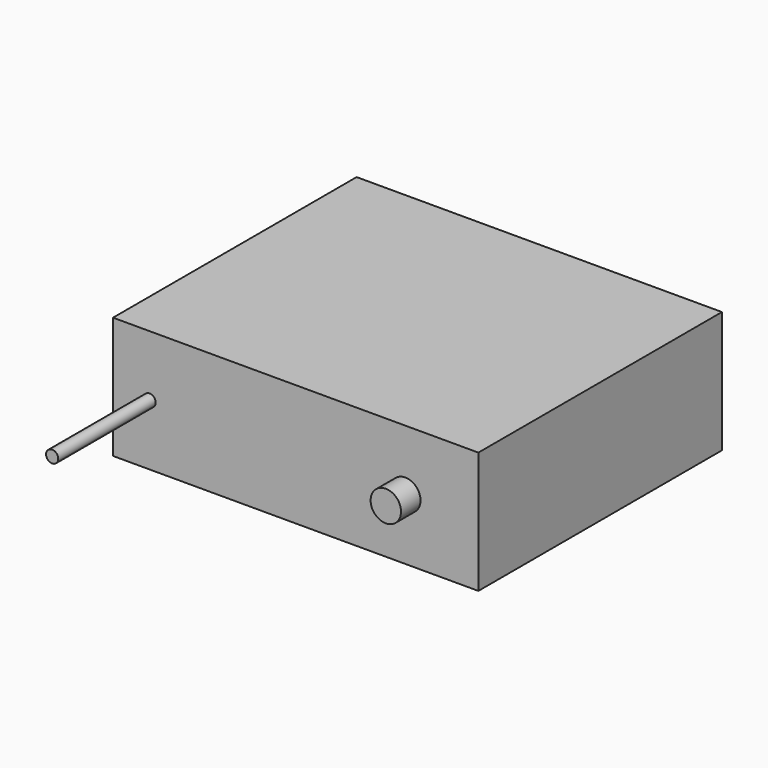
from build123d import *

# Parameters (mm, degrees)
F0_W     = 30
F0_H     = 10
F1_DEPTH = 25
F2_R     = 1.25
F3_DEPTH = 2
F4_R     = 0.5
F5_DEPTH = 10


with BuildPart() as f1:
    # F0 (on Front) → F1 (new body)
    with BuildSketch(Plane.XZ):
        with Locations((-31.001214, 5)):
            Rectangle(F0_W, F0_H)
    extrude(amount=-F1_DEPTH)

    # F2 (on face) → F3 (join)
    with BuildSketch(Plane.XZ):
        with Locations((-22.001214, 5)):
            Circle(F2_R)
    extrude(amount=F3_DEPTH)

    # F4 (on face) → F5 (join)
    with BuildSketch(Plane.XZ):
        with Locations((-43.001214, 5)):
            Circle(F4_R)
    extrude(amount=F5_DEPTH)


solid = f1.part
